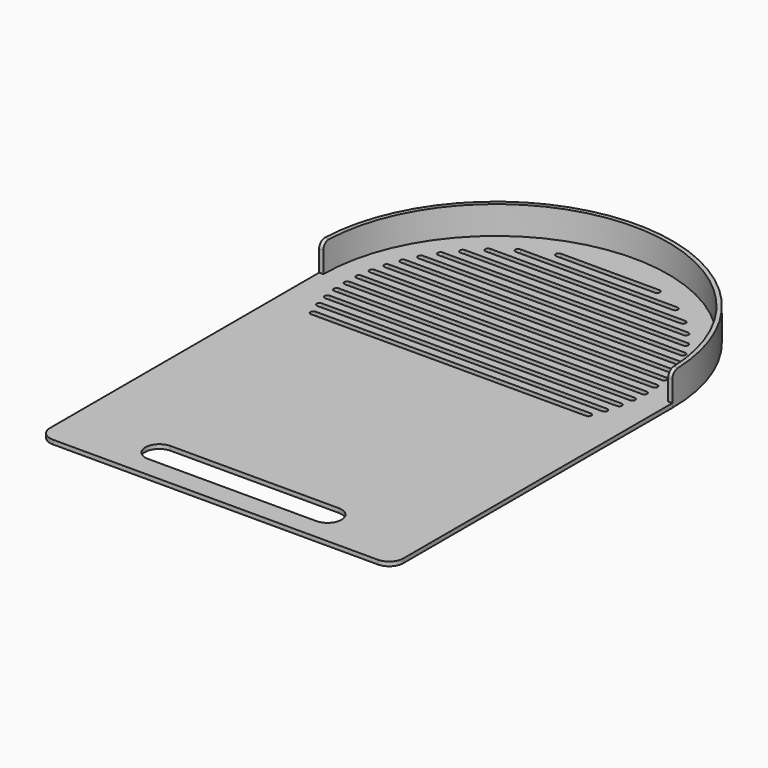
from build123d import *

# Parameters (mm, degrees)
F1_DEPTH = 3
F2_DEPTH = 20
F3_R     = 5


with BuildPart() as f1:
    # F0 (on Top) → F1 (new body)
    with BuildSketch(Plane.XY):
        with BuildLine():
            Line((126, -240), (126, 0))
            Line((126, 0), (123, 0))
            ThreePointArc((123, 0), (0, 123), (-123, 0))
            Line((-123, 0), (-126, 0))
            Line((-126, 0), (-126, -240))
            ThreePointArc((-126, -240), (-123.071068, -247.071068), (-116, -250))
            Line((-116, -250), (116, -250))
            ThreePointArc((116, -250), (123.071068, -247.071068), (126, -240))
        make_face()
        with BuildLine():
            Line((60, -235), (-60, -235))
            ThreePointArc((-60, -235), (-70, -225), (-60, -215))
            Line((-60, -215), (60, -215))
            ThreePointArc((60, -215), (70, -225), (60, -235))
        make_face(mode=Mode.SUBTRACT)
        with BuildLine():
            ThreePointArc((98.16313, -38), (100.16313, -40), (98.16313, -42))
            Line((98.16313, -42), (-98.16313, -42))
            ThreePointArc((-98.16313, -42), (-100.16313, -40), (-98.16313, -38))
            Line((-98.16313, -38), (98.16313, -38))
        make_face(mode=Mode.SUBTRACT)
        with BuildLine():
            ThreePointArc((-101.66612, -32), (-103.66612, -30), (-101.66612, -28))
            Line((-101.66612, -28), (101.66612, -28))
            ThreePointArc((101.66612, -28), (103.66612, -30), (101.66612, -32))
            Line((101.66612, -32), (-101.66612, -32))
        make_face(mode=Mode.SUBTRACT)
        with BuildLine():
            ThreePointArc((104.096109, -18), (106.096109, -20), (104.096109, -22))
            Line((104.096109, -22), (-104.096109, -22))
            ThreePointArc((-104.096109, -22), (-106.096109, -20), (-104.096109, -18))
            Line((-104.096109, -18), (104.096109, -18))
        make_face(mode=Mode.SUBTRACT)
        with BuildLine():
            ThreePointArc((-105.527248, -12), (-107.527248, -10), (-105.527248, -8))
            Line((-105.527248, -8), (105.527248, -8))
            ThreePointArc((105.527248, -8), (107.527248, -10), (105.527248, -12))
            Line((105.527248, -12), (-105.527248, -12))
        make_face(mode=Mode.SUBTRACT)
        with BuildLine():
            Line((106, -2), (-106, -2))
            ThreePointArc((-106, -2), (-108, 0), (-106, 2))
            Line((-106, 2), (106, 2))
            ThreePointArc((106, 2), (108, 0), (106, -2))
        make_face(mode=Mode.SUBTRACT)
        with BuildLine():
            Line((105.527248, 8), (-105.527248, 8))
            ThreePointArc((-105.527248, 8), (-107.527248, 10), (-105.527248, 12))
            Line((-105.527248, 12), (105.527248, 12))
            ThreePointArc((105.527248, 12), (107.527248, 10), (105.527248, 8))
        make_face(mode=Mode.SUBTRACT)
        with BuildLine():
            Line((104.096109, 18), (-104.096109, 18))
            ThreePointArc((-104.096109, 18), (-106.096109, 20), (-104.096109, 22))
            Line((-104.096109, 22), (104.096109, 22))
            ThreePointArc((104.096109, 22), (106.096109, 20), (104.096109, 18))
        make_face(mode=Mode.SUBTRACT)
        with BuildLine():
            Line((101.66612, 28), (-101.66612, 28))
            ThreePointArc((-101.66612, 28), (-103.66612, 30), (-101.66612, 32))
            Line((-101.66612, 32), (101.66612, 32))
            ThreePointArc((101.66612, 32), (103.66612, 30), (101.66612, 28))
        make_face(mode=Mode.SUBTRACT)
        with BuildLine():
            Line((98.16313, 38), (-98.16313, 38))
            ThreePointArc((-98.16313, 38), (-100.16313, 40), (-98.16313, 42))
            Line((-98.16313, 42), (98.16313, 42))
            ThreePointArc((98.16313, 42), (100.16313, 40), (98.16313, 38))
        make_face(mode=Mode.SUBTRACT)
        with BuildLine():
            Line((93.466572, 48), (-93.466572, 48))
            ThreePointArc((-93.466572, 48), (-95.466572, 50), (-93.466572, 52))
            Line((-93.466572, 52), (93.466572, 52))
            ThreePointArc((93.466572, 52), (95.466572, 50), (93.466572, 48))
        make_face(mode=Mode.SUBTRACT)
        with BuildLine():
            Line((87.384209, 58), (-87.384209, 58))
            ThreePointArc((-87.384209, 58), (-89.384209, 60), (-87.384209, 62))
            Line((-87.384209, 62), (87.384209, 62))
            ThreePointArc((87.384209, 62), (89.384209, 60), (87.384209, 58))
        make_face(mode=Mode.SUBTRACT)
        with BuildLine():
            Line((79.598995, 68), (-79.598995, 68))
            ThreePointArc((-79.598995, 68), (-81.598995, 70), (-79.598995, 72))
            Line((-79.598995, 72), (79.598995, 72))
            ThreePointArc((79.598995, 72), (81.598995, 70), (79.598995, 68))
        make_face(mode=Mode.SUBTRACT)
        with BuildLine():
            Line((69.541355, 78), (-69.541355, 78))
            ThreePointArc((-69.541355, 78), (-71.541355, 80), (-69.541355, 82))
            Line((-69.541355, 82), (69.541355, 82))
            ThreePointArc((69.541355, 82), (71.541355, 80), (69.541355, 78))
        make_face(mode=Mode.SUBTRACT)
        with BuildLine():
            Line((56, 88), (-56, 88))
            ThreePointArc((-56, 88), (-58, 90), (-56, 92))
            Line((-56, 92), (56, 92))
            ThreePointArc((56, 92), (58, 90), (56, 88))
        make_face(mode=Mode.SUBTRACT)
        with BuildLine():
            Line((35.156792, 98), (-35.156792, 98))
            ThreePointArc((-35.156792, 98), (-37.156792, 100), (-35.156792, 102))
            Line((-35.156792, 102), (35.156792, 102))
            ThreePointArc((35.156792, 102), (37.156792, 100), (35.156792, 98))
        make_face(mode=Mode.SUBTRACT)
        with BuildLine():
            Line((123, 0), (126, 0))
            ThreePointArc((126, 0), (0, 126), (-126, 0))
            Line((-126, 0), (-123, 0))
            ThreePointArc((-123, 0), (0, 123), (123, 0))
        make_face()
    extrude(amount=-F1_DEPTH)

    # F0 (on Top) → F2 (join)
    with BuildSketch(Plane.XY):
        with BuildLine():
            Line((123, 0), (126, 0))
            ThreePointArc((126, 0), (0, 126), (-126, 0))
            Line((-126, 0), (-123, 0))
            ThreePointArc((-123, 0), (0, 123), (123, 0))
        make_face()
    extrude(amount=F2_DEPTH)

    # F3
    f3_edges = [f1.edges().sort_by_distance(p)[0] for p in [
        (-124.5, 0, 20),
        (124.5, 0, 20),
    ]]
    fillet(f3_edges, radius=F3_R)


solid = f1.part
